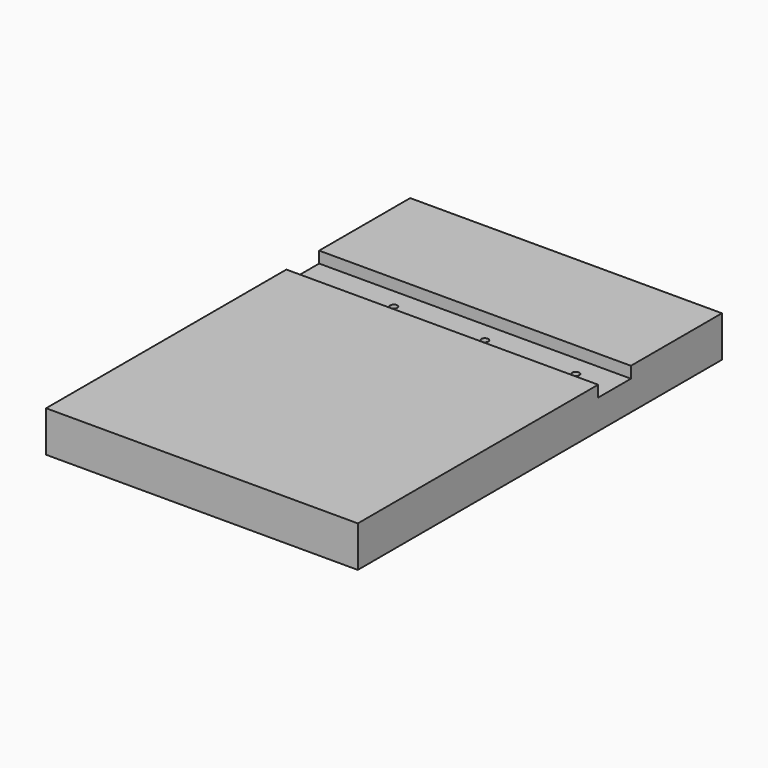
from build123d import *

# Parameters (mm, degrees)
BOX_W                    = 18
BOX_H                    = 200
BOX_DEPTH                = 137
SKETCH001_W              = 18
SKETCH001_H              = 137
POCKET001_DEPTH          = 5
SKETCH003_R              = 1.55
HOLE_DEPTH               = 13.001
CLONE002_PLACEMENT_ANGLE = 90


with BuildPart() as part:
    # Box → Box (new body)
    with BuildSketch(Plane.XY):
        with Locations((9, 100)):
            Rectangle(BOX_W, BOX_H)
    extrude(amount=BOX_DEPTH)

    # Sketch001 (on Face2 of BaseFeature001) → Pocket001 (cut)
    with BuildSketch(Plane.YZ.offset(18)):
        with Locations((141, 68.5)):
            Rectangle(SKETCH001_W, SKETCH001_H)
    extrude(amount=-POCKET001_DEPTH, mode=Mode.SUBTRACT)

    # Sketch003 (on Face9 of Pocket001) → Hole (cut, through all)
    with BuildSketch(Plane.YZ.offset(13)):
        with Locations((141, 97)):
            Circle(SKETCH003_R)
        with Locations((141, 57)):
            Circle(SKETCH003_R)
        with Locations((141, 17)):
            Circle(SKETCH003_R)
    extrude(amount=-HOLE_DEPTH, mode=Mode.SUBTRACT)


with BuildPart() as part_1:
    # Clone002 placement: moved
    add(part.part.moved(Location((137, 0, 0))).rotate(Axis((137, 0, 0), (0, -1, 0)), CLONE002_PLACEMENT_ANGLE))


solid = part_1.part
